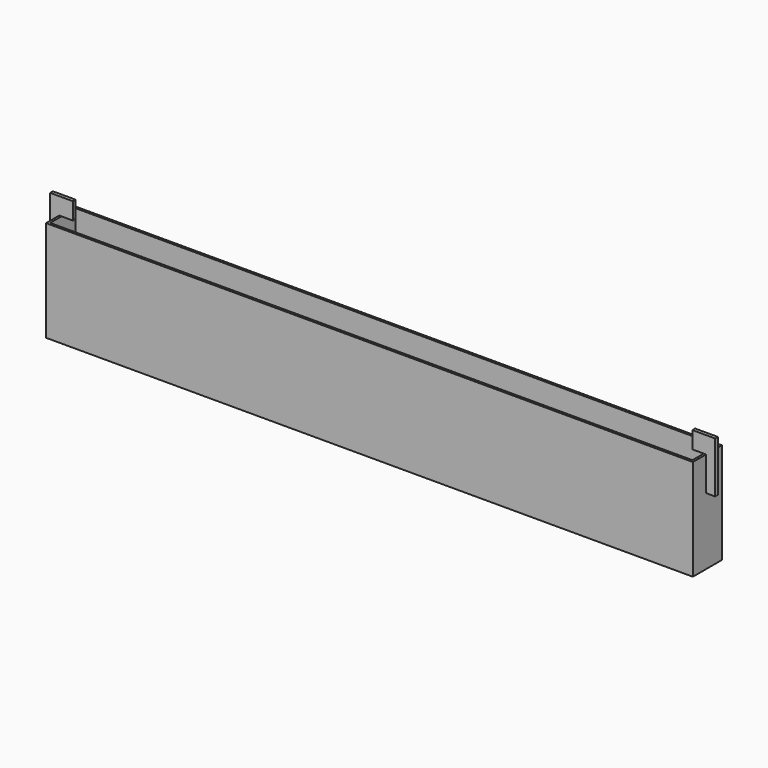
from build123d import *

# Parameters (mm, degrees)
F0_W      = 570
F0_H      = 32
F1_DEPTH  = 89
F2_W      = 3
F2_H      = 30
F3_DEPTH  = 8
F4_W      = 8
F4_H      = 3
F5_DEPTH  = 15
F6_W      = 566
F6_H      = 28
F7_DEPTH  = 87
F8_W      = 3
F8_H      = 15
F9_DEPTH  = 12
F10_W     = 3
F10_H     = 30
F10_H_2   = 15
F11_DEPTH = 8
F12_W     = 3
F12_H     = 15
F13_DEPTH = 12


with BuildPart() as f1:
    # F0 (on Top) → F1 (new body)
    with BuildSketch(Plane.XY):
        Rectangle(F0_W, F0_H)
    extrude(amount=F1_DEPTH)

    # F2 (on face) → F3 (join)
    with BuildSketch(Plane(origin=(-285, 0, 0), x_dir=(0, -1, 0), z_dir=(-1, 0, 0))):
        with Locations((0, 74)):
            Rectangle(F2_W, F2_H)
    extrude(amount=F3_DEPTH)

    # F4 (on face) → F5 (join)
    with BuildSketch(Plane.XY.offset(89)):
        with Locations((-289, 0)):
            Rectangle(F4_W, F4_H)
    extrude(amount=F5_DEPTH)

    # F6 (on face) → F7 (cut)
    with BuildSketch(Plane.XY.offset(89)):
        Rectangle(F6_W, F6_H)
    extrude(amount=-F7_DEPTH, mode=Mode.SUBTRACT)

    # F8 (on face) → F9 (join)
    with BuildSketch(Plane(origin=(285, 0, 0), x_dir=(0, -1, 0), z_dir=(-1, 0, 0))):
        with Locations((0, 96.5)):
            Rectangle(F8_W, F8_H)
    extrude(amount=F9_DEPTH)

    # F10 (on face) → F11 (join)
    with BuildSketch(Plane.YZ.offset(285)):
        with Locations((0, 74)):
            Rectangle(F10_W, F10_H)
        with Locations((0, 96.5)):
            Rectangle(F10_W, F10_H_2)
    extrude(amount=F11_DEPTH)

    # F12 (on face) → F13 (join)
    with BuildSketch(Plane.YZ.offset(-285)):
        with Locations((0, 96.5)):
            Rectangle(F12_W, F12_H)
    extrude(amount=F13_DEPTH)


solid = f1.part
